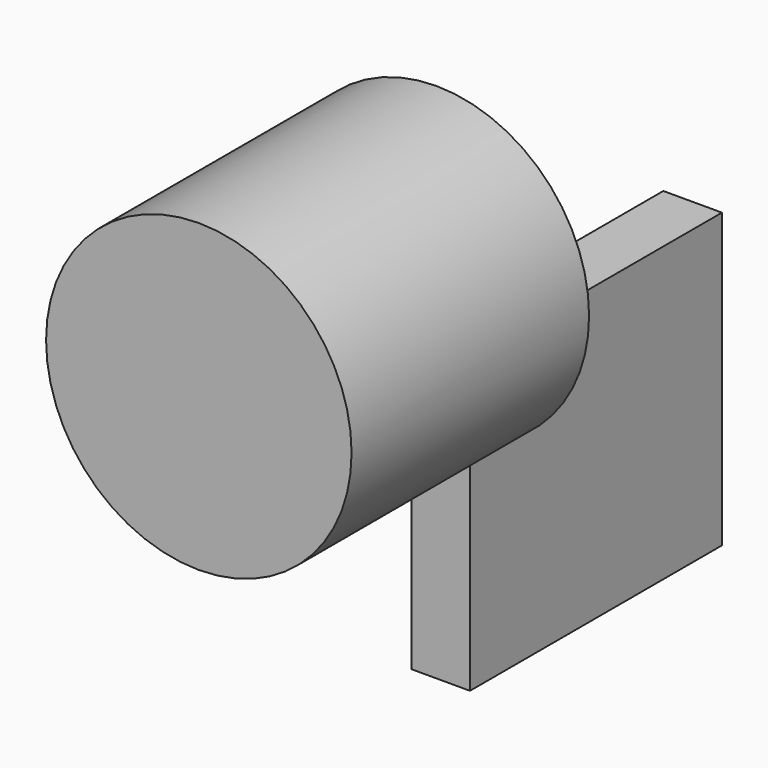
from build123d import *

# Parameters (mm, degrees)
F0_R     = 49.659015
F1_DEPTH = 96.52
F2_W     = 102.38088
F2_H     = 95.25
F3_DEPTH = 19.05


with BuildPart() as f1:
    # F0 (on Front) → F1 (new body)
    with BuildSketch(Plane.XZ):
        with Locations((0, -1.140985)):
            Circle(F0_R)
    extrude(amount=F1_DEPTH)

    # F2 (on Right) → F3 (join)
    with BuildSketch(Plane.YZ):
        with Locations((41.052272, -66.675)):
            Rectangle(F2_W, F2_H)
    extrude(amount=F3_DEPTH)


solid = f1.part
